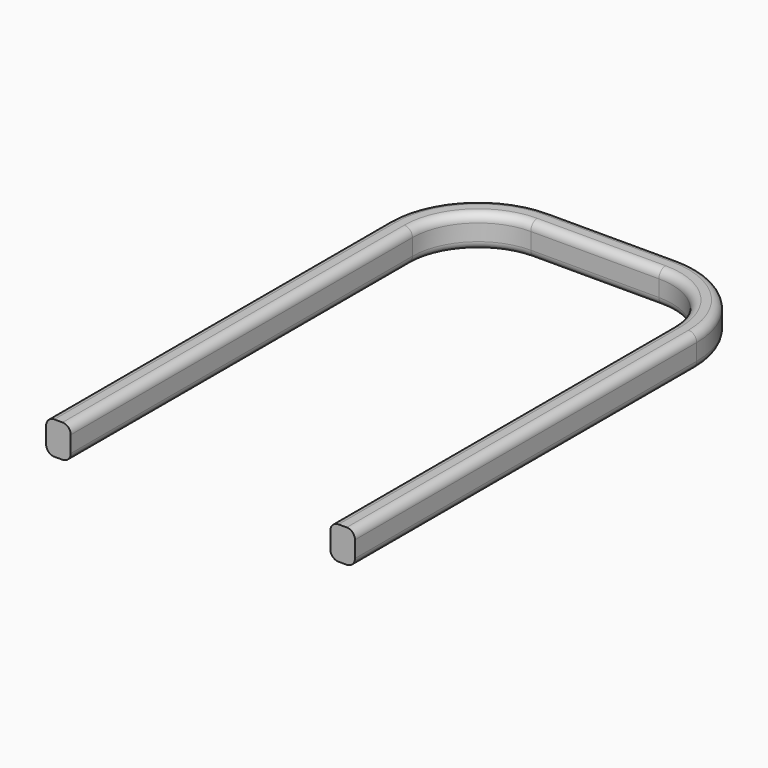
from build123d import *

# Parameters (mm, degrees)
F1_W = 0.75
F1_H = 1
F3_R = 0.25


with BuildPart() as f2:
    # F2: sweep along a path in F0
    with BuildLine(Plane.XY) as f2_path:
        Line((-3.95, 0), (-3.95, 13))
        ThreePointArc((-3.95, 13), (-3.3642135624, 14.4142135624), (-1.95, 15))
        Line((-1.95, 15), (1.95, 15))
        ThreePointArc((1.95, 15), (3.3642135624, 14.4142135624), (3.95, 13))
        Line((3.95, 13), (3.95, 0))
    # F1 (on Front) → F2 (sweep)
    with BuildSketch(Plane.XZ):
        with Locations((-4.325, 0.5)):
            Rectangle(F1_W, F1_H)
    sweep(path=f2_path.line)

    # F3
    f3_edges = [f2.edges().sort_by_distance(p)[0] for p in [
        (-4.7, 6.5, 1),
        (-3.95, 6.5, 1),
        (3.95, 6.5, 0),
        (4.7, 6.5, 0),
    ]]
    fillet(f3_edges, radius=F3_R)


solid = f2.part
